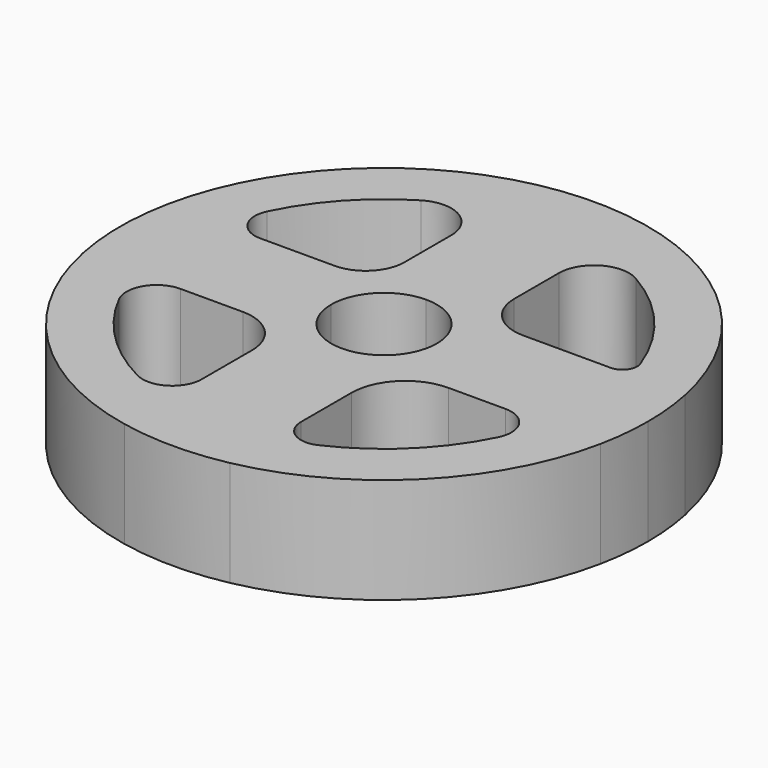
from build123d import *

# Parameters (mm, degrees)
F1_DEPTH = 25.4


with BuildPart() as f1:
    # F0 (on Top) → F1 (new body)
    with BuildSketch(Plane.XY):
        with BuildLine():
            ThreePointArc((62.217039, -12.7), (63.178446, -6.382319), (63.5, 0))
            ThreePointArc((63.5, 0), (63.178446, 6.382319), (62.217039, 12.7))
            ThreePointArc((62.217039, 12.7), (44.901281, 44.901281), (12.7, 62.217039))
            ThreePointArc((12.7, 62.217039), (0, 63.5), (-12.7, 62.217039))
            ThreePointArc((-12.7, 62.217039), (-44.901281, 44.901281), (-62.217039, 12.7))
            ThreePointArc((-62.217039, 12.7), (-63.5, 0), (-62.217039, -12.7))
            ThreePointArc((-62.217039, -12.7), (-44.901281, -44.901281), (-12.7, -62.217039))
            ThreePointArc((-12.7, -62.217039), (0, -63.5), (12.7, -62.217039))
            ThreePointArc((12.7, -62.217039), (44.901281, -44.901281), (62.217039, -12.7))
        make_face()
        with BuildLine():
            Line((-38.781214, -12.7), (-23.818171, -12.7))
            ThreePointArc((-23.818171, -12.7), (-15.956437, -15.956437), (-12.7, -23.818171))
            Line((-12.7, -23.818171), (-12.7, -38.903732))
            ThreePointArc((-12.7, -38.903732), (-16.106497, -44.985725), (-23.072168, -45.258315))
            ThreePointArc((-23.072168, -45.258315), (-35.870554, -35.971424), (-45.193347, -23.199167))
            ThreePointArc((-45.193347, -23.199167), (-44.932392, -16.150922), (-38.781214, -12.7))
        make_face(mode=Mode.SUBTRACT)
        with BuildLine():
            ThreePointArc((12.7, -25.691613), (16.505155, -16.505155), (25.691613, -12.7))
            Line((25.691613, -12.7), (39.426834, -12.7))
            ThreePointArc((39.426834, -12.7), (45.212383, -15.917819), (45.530459, -22.530365))
            ThreePointArc((45.530459, -22.530365), (35.350824, -36.482314), (21.085184, -46.217475))
            ThreePointArc((21.085184, -46.217475), (15.421042, -45.810714), (12.7, -40.82635))
            Line((12.7, -40.82635), (12.7, -25.691613))
        make_face(mode=Mode.SUBTRACT)
        with BuildLine():
            ThreePointArc((-45.771434, 22.036692), (-37.467555, 34.304844), (-25.977372, 43.655654))
            ThreePointArc((-25.977372, 43.655654), (-17.142719, 43.74295), (-12.7, 36.106133))
            Line((-12.7, 36.106133), (-12.7, 22.051613))
            ThreePointArc((-12.7, 22.051613), (-15.439024, 15.439024), (-22.051613, 12.7))
            Line((-22.051613, 12.7), (-39.904147, 12.7))
            ThreePointArc((-39.904147, 12.7), (-45.417741, 15.747075), (-45.771434, 22.036692))
        make_face(mode=Mode.SUBTRACT)
        with BuildLine():
            ThreePointArc((0, 12.7), (8.980256, 8.980256), (12.7, 0))
            ThreePointArc((12.7, 0), (8.980256, -8.980256), (0, -12.7))
            ThreePointArc((0, -12.7), (-8.980256, -8.980256), (-12.7, 0))
            ThreePointArc((-12.7, 0), (-8.980256, 8.980256), (0, 12.7))
        make_face(mode=Mode.SUBTRACT)
        with BuildLine():
            ThreePointArc((23.290303, 12.7), (15.801828, 15.801828), (12.7, 23.290303))
            Line((12.7, 23.290303), (12.7, 36.712798))
            ThreePointArc((12.7, 36.712798), (16.914181, 44.017056), (25.346941, 44.024681))
            ThreePointArc((25.346941, 44.024681), (38.87275, 32.703965), (47.712298, 17.44066))
            ThreePointArc((47.712298, 17.44066), (47.289976, 14.206876), (44.397738, 12.7))
            Line((44.397738, 12.7), (23.290303, 12.7))
        make_face(mode=Mode.SUBTRACT)
    extrude(amount=F1_DEPTH)


solid = f1.part
